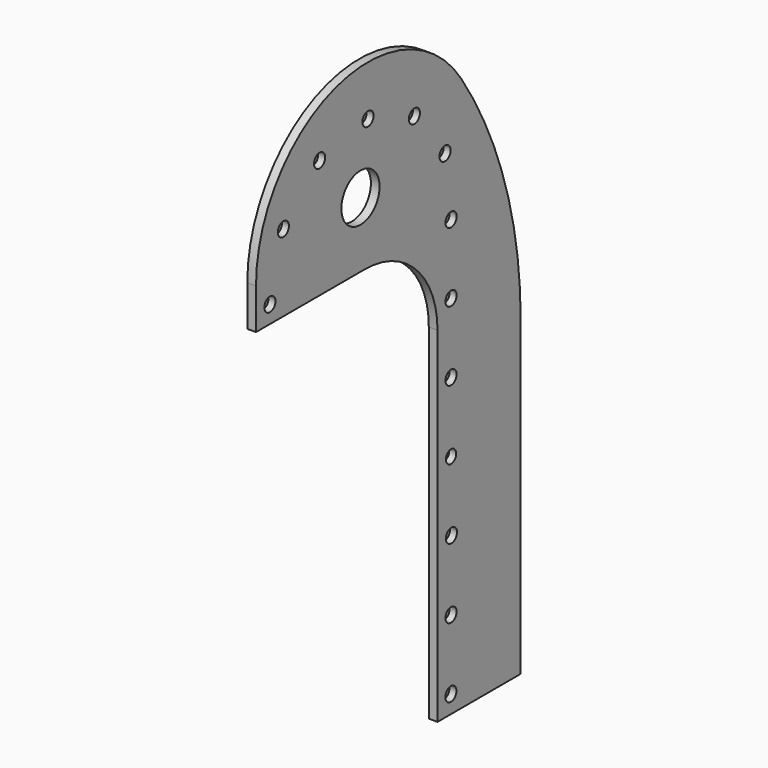
from build123d import *

# Parameters (mm, degrees)
F0_R     = 20
F0_R_2   = 18.589258
F0_R_3   = 68.575509
F1_DEPTH = 25
F0_R_4   = 5
F2_DEPTH = 5


with BuildPart() as f1:
    # F0 (on Right) → F1 (new body)
    with BuildSketch(Plane.YZ):
        with BuildLine():
            Line((-298.589258, 0), (0, 0))
            Line((0, 0), (0, 892.051685))
            ThreePointArc((0, 892.051685), (-54.630274, 1257.867666), (-213.75398, 1591.762028))
            ThreePointArc((-213.75398, 1591.762028), (-665.110466, 1751.764013), (-950, 1366.846793))
            Line((-950, 1366.846793), (-950, 1253.181696))
            Line((-950, 1253.181696), (-950, 1250))
            Line((-950, 1250), (-850, 1250))
            Line((-850, 1250), (-558.699328, 1250))
            ThreePointArc((-558.699328, 1250), (-374.773734, 1173.815524), (-298.589258, 989.88993))
            Line((-298.589258, 989.88993), (-298.589258, 0))
        make_face()
        with Locations((-250.612468, 51.013041)):
            Circle(F0_R, mode=Mode.SUBTRACT)
        with Locations((-250, 251.013041)):
            Circle(F0_R, mode=Mode.SUBTRACT)
        with Locations((-248.589258, 451.013041)):
            Circle(F0_R, mode=Mode.SUBTRACT)
        with Locations((-250, 651.013041)):
            Circle(F0_R_2, mode=Mode.SUBTRACT)
        with Locations((-250, 851.013041)):
            Circle(F0_R, mode=Mode.SUBTRACT)
        with Locations((-900, 1300)):
            Circle(F0_R, mode=Mode.SUBTRACT)
        with Locations((-851.884544, 1470.595476)):
            Circle(F0_R, mode=Mode.SUBTRACT)
        with Locations((-721.809268, 1591.004512)):
            Circle(F0_R, mode=Mode.SUBTRACT)
        with Locations((-575, 1437.5)):
            Circle(F0_R_3, mode=Mode.SUBTRACT)
        with Locations((-548.01309, 1625.829824)):
            Circle(F0_R, mode=Mode.SUBTRACT)
        with Locations((-250, 1051.013041)):
            Circle(F0_R, mode=Mode.SUBTRACT)
        with Locations((-250, 1250)):
            Circle(F0_R, mode=Mode.SUBTRACT)
        with Locations((-271.458319, 1425.947305)):
            Circle(F0_R, mode=Mode.SUBTRACT)
        with Locations((-381.587799, 1564.83363)):
            Circle(F0_R, mode=Mode.SUBTRACT)
    extrude(amount=F1_DEPTH)

    # F0 (on Right) → F2 (join)
    with BuildSketch(Plane.YZ):
        with Locations((-250.612468, 51.013041)):
            Circle(F0_R)
        with Locations((-250.612468, 51.013041)):
            Circle(F0_R_4, mode=Mode.SUBTRACT)
        with Locations((-250, 251.013041)):
            Circle(F0_R)
        with Locations((-250, 251.013041)):
            Circle(F0_R_4, mode=Mode.SUBTRACT)
        with Locations((-248.589258, 451.013041)):
            Circle(F0_R)
        with Locations((-248.589258, 451.013041)):
            Circle(F0_R_4, mode=Mode.SUBTRACT)
        with Locations((-250, 651.013041)):
            Circle(F0_R_2)
        with Locations((-250, 651.013041)):
            Circle(F0_R_4, mode=Mode.SUBTRACT)
        with Locations((-250, 851.013041)):
            Circle(F0_R)
        with Locations((-250, 851.013041)):
            Circle(F0_R_4, mode=Mode.SUBTRACT)
        with Locations((-250, 1051.013041)):
            Circle(F0_R)
        with Locations((-250, 1051.013041)):
            Circle(F0_R_4, mode=Mode.SUBTRACT)
        with Locations((-250, 1250)):
            Circle(F0_R)
        with Locations((-250, 1250)):
            Circle(F0_R_4, mode=Mode.SUBTRACT)
        with Locations((-271.458319, 1425.947305)):
            Circle(F0_R)
        with Locations((-271.458319, 1425.947305)):
            Circle(F0_R_4, mode=Mode.SUBTRACT)
        with Locations((-381.587799, 1564.83363)):
            Circle(F0_R)
        with Locations((-381.587799, 1564.83363)):
            Circle(F0_R_4, mode=Mode.SUBTRACT)
        with Locations((-548.01309, 1625.829824)):
            Circle(F0_R)
        with Locations((-548.01309, 1625.829824)):
            Circle(F0_R_4, mode=Mode.SUBTRACT)
        with Locations((-721.809268, 1591.004512)):
            Circle(F0_R)
        with Locations((-721.809268, 1591.004512)):
            Circle(F0_R_4, mode=Mode.SUBTRACT)
        with Locations((-851.884544, 1470.595476)):
            Circle(F0_R)
        with Locations((-851.884544, 1470.595476)):
            Circle(F0_R_4, mode=Mode.SUBTRACT)
        with Locations((-900, 1300)):
            Circle(F0_R)
        with Locations((-900, 1300)):
            Circle(F0_R_4, mode=Mode.SUBTRACT)
    extrude(amount=F2_DEPTH)


solid = f1.part
